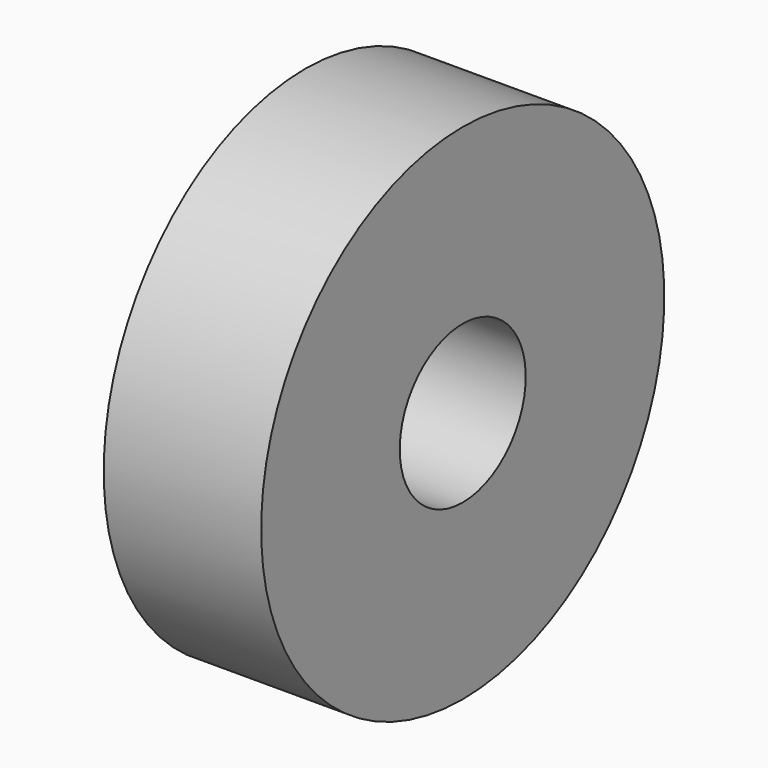
from build123d import *

# Parameters (mm, degrees)
SKETCH_R             = 8
SKETCH_R_2           = 2.5
PAD_DEPTH            = 5
BODY_PLACEMENT_ANGLE = 270


with BuildPart() as part:
    # Sketch → Pad (new body)
    with BuildSketch(Plane.XY):
        Circle(SKETCH_R)
        Circle(SKETCH_R_2, mode=Mode.SUBTRACT)
    extrude(amount=PAD_DEPTH)


with BuildPart() as part_1:
    # Body placement: moved
    add(part.part.rotate(Axis((0, 0, 0), (0, -1, 0)), BODY_PLACEMENT_ANGLE))


solid = part_1.part
